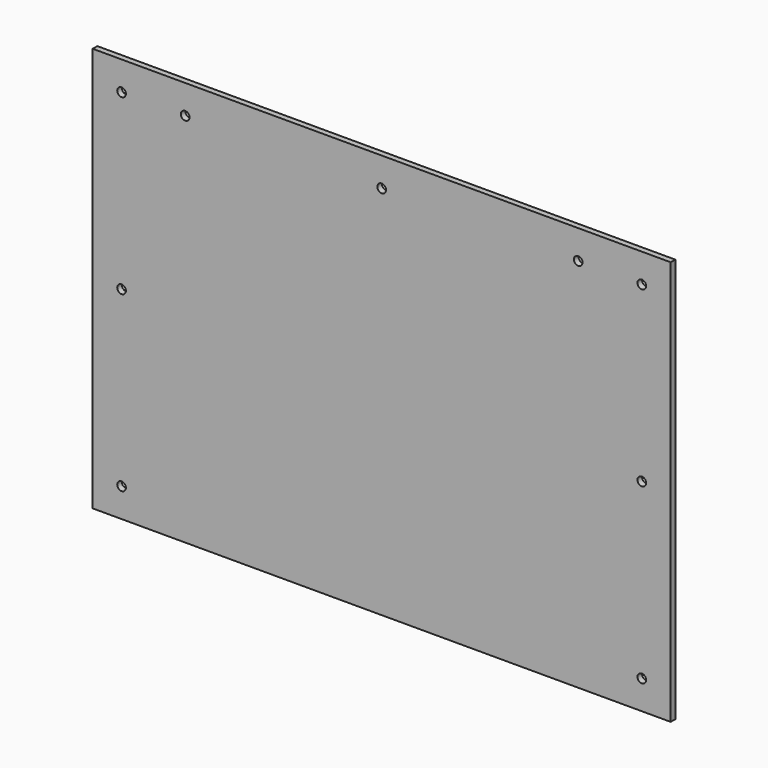
from build123d import *

# Parameters (mm, degrees)
SKETCH_W        = 2
SKETCH_H        = 140
PAD_DEPTH       = 200
SKETCH040_R     = 1.5
POCKET_DEPTH    = 5
SKETCH064_R     = 1.5
POCKET040_DEPTH = 5


with BuildPart() as part:
    # Sketch → Pad (new body)
    with BuildSketch(Plane.YZ):
        with Locations((1, 70)):
            Rectangle(SKETCH_W, SKETCH_H)
    extrude(amount=PAD_DEPTH)

    # Sketch040 (on Face1 of Pad) → Pocket (cut)
    with BuildSketch(Plane(origin=(0, 0, 0), x_dir=(0, 0, -1), z_dir=(0, -1, 0))):
        with Locations((-130, 190)):
            Circle(SKETCH040_R)
        with Locations((-70, 190)):
            Circle(SKETCH040_R)
        with Locations((-10, 190)):
            Circle(SKETCH040_R)
        with Locations((-10, 10)):
            Circle(SKETCH040_R)
        with Locations((-70, 10)):
            Circle(SKETCH040_R)
        with Locations((-130, 10)):
            Circle(SKETCH040_R)
    extrude(amount=-POCKET_DEPTH, mode=Mode.SUBTRACT)

    # Sketch064 (on Face1 of Pocket) → Pocket040 (cut)
    with BuildSketch(Plane(origin=(0, 0, 0), x_dir=(0, 0, -1), z_dir=(0, -1, 0))):
        with Locations((-130, 32)):
            Circle(SKETCH064_R)
        with Locations((-130, 100)):
            Circle(SKETCH064_R)
        with Locations((-130, 168)):
            Circle(SKETCH064_R)
    extrude(amount=-POCKET040_DEPTH, mode=Mode.SUBTRACT)


with BuildPart() as part_1:
    # Body placement: moved
    add(part.part.moved(Location((-300, -2.1, -343.2))))


solid = part_1.part
